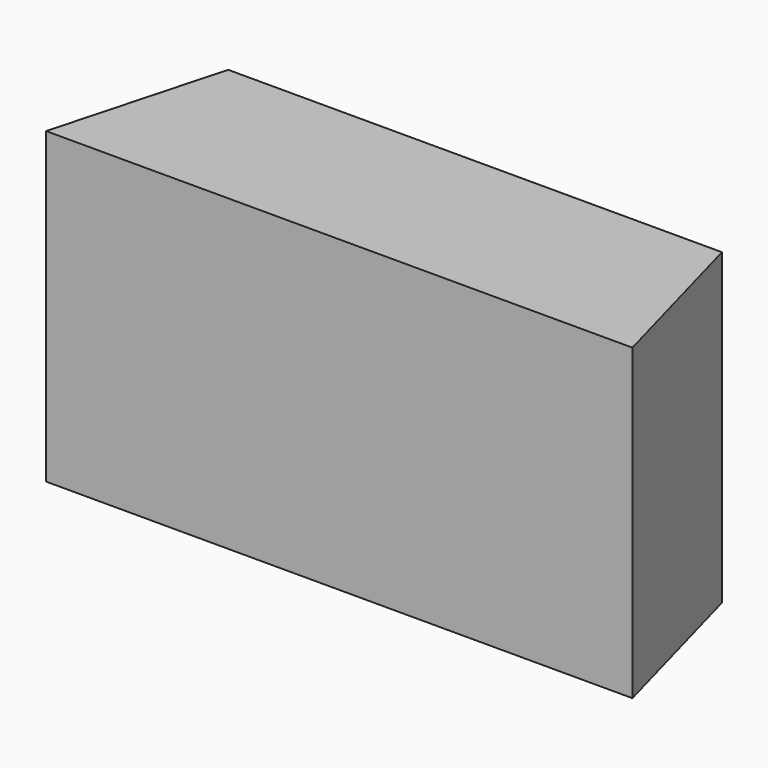
from build123d import *

# Parameters (mm, degrees)
SKETCH003_W      = 14
SKETCH003_H      = 8
EXTRUDE002_DEPTH = 3.75
EXTRUDE001_DEPTH = 10


with BuildPart() as extrude002:
    # Sketch003 (on Face2 of Extrude001) → Extrude002 (new body, symmetric)
    with BuildSketch(Plane(origin=(0, 7.5, 0), x_dir=(-1, 0, 0), z_dir=(0, 1, 0))):
        with Locations((0, 5)):
            Rectangle(SKETCH003_W, SKETCH003_H)
    extrude(amount=EXTRUDE002_DEPTH, both=True)


with BuildPart() as cut:
    # Sketch001 → Extrude001 (new body)
    with BuildSketch(Plane.XY):
        Polygon((-9.5, 2), (-8, 7.5), (8, 7.5), (9.5, 2), align=None)
    extrude(amount=EXTRUDE001_DEPTH)

    # Cut: cut Extrude002
    add(extrude002.part, mode=Mode.SUBTRACT)


solid = cut.part
